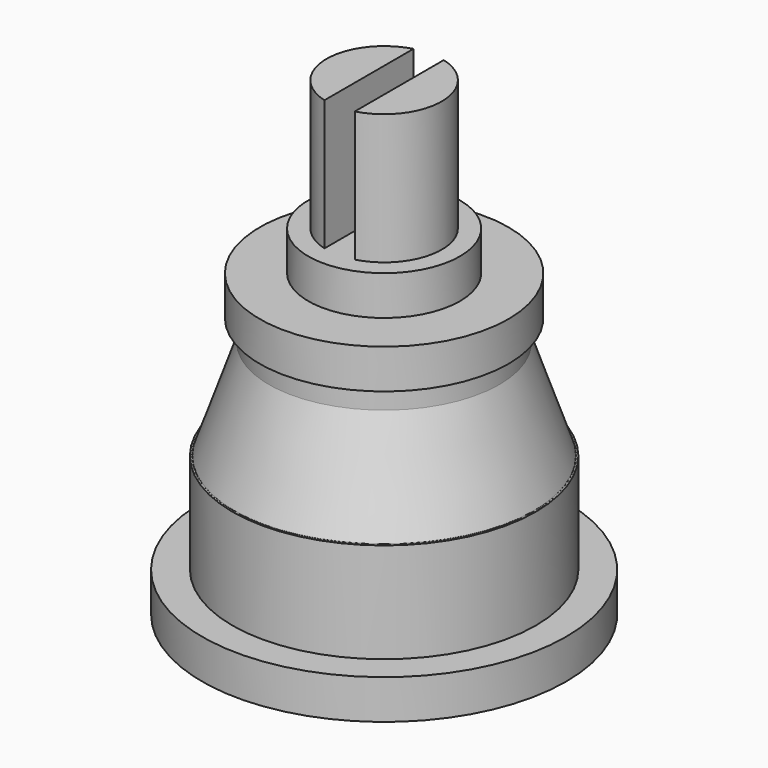
from build123d import *

# Parameters (mm, degrees)
F0_W     = 0.635
F0_H     = 5.461
F2_DEPTH = 3.175


with BuildPart() as f1:
    # F0 (on Front) → F1 (revolve)
    with BuildSketch(Plane.XZ):
        with BuildLine():
            Line((0, 0), (7.62, 0))
            Line((7.62, 0), (7.62, 1.651))
            Line((7.62, 1.651), (6.35, 1.651))
            Line((6.35, 1.651), (6.35, 5.842))
            Line((6.35, 5.842), (6.290507, 5.842))
            ThreePointArc((6.290507, 5.842), (6.276233, 5.846566), (6.267258, 5.858569))
            Line((6.267258, 5.858569), (4.826, 10.033))
            Line((4.826, 10.033), (4.826, 10.922))
            Line((4.826, 10.922), (5.207, 10.922))
            Line((5.207, 10.922), (5.207, 12.573))
            Line((5.207, 12.573), (3.175, 12.573))
            Line((3.175, 12.573), (3.175, 14.224))
            Line((3.175, 14.224), (2.413, 14.224))
            Line((2.413, 14.224), (2.413, 19.685))
            Line((2.413, 19.685), (0.635, 19.685))
            Line((0.635, 19.685), (0.635, 14.224))
            Line((0.635, 14.224), (0, 14.224))
            Line((0, 14.224), (0, 0))
        make_face()
    revolve(axis=Axis((0, 0, 13.806538), (0, 0, -1)))

    # F0 (on Front) → F2 (cut, symmetric)
    with BuildSketch(Plane.XZ):
        with Locations((-0.3175, 16.9545)):
            Rectangle(F0_W, F0_H)
        with Locations((0.3175, 16.9545)):
            Rectangle(F0_W, F0_H)
    extrude(amount=F2_DEPTH, both=True, mode=Mode.SUBTRACT)


solid = f1.part
